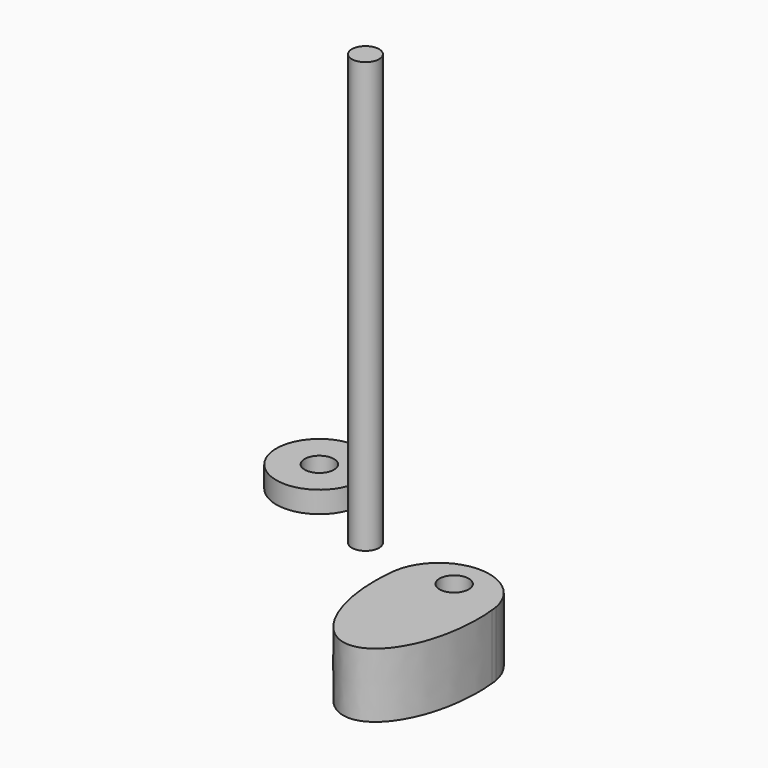
from build123d import *

# Parameters (mm, degrees)
F0_R     = 3.4
F1_DEPTH = 15
F2_R     = 10
F2_R_2   = 3.4
F3_DEPTH = 5
F4_R     = 3.1648062528
F5_DEPTH = 100


with BuildPart() as f1:
    # F0 (on Top) → F1 (new body)
    with BuildSketch(Plane.XY):
        with BuildLine():
            add(Edge.make_bspline(
                [(11.7692737968, 4.3909418779), (11.6971997454, 5.0701040007), (11.6029873176, 5.7396703336)],
                knots=[4.9088023994, 4.9088023994, 4.9088023994, 4.970336442, 4.970336442, 4.970336442], degree=2, weights=[1, 0.9995267325, 1]))
            ThreePointArc((11.7692737968, 4.3909418779), (11.7055719429, 5.0677030594), (11.6029873176, 5.7396703336))
        make_face()
        with BuildLine():
            add(Edge.make_bspline(
                [(-11.7692737968, 4.3909418779), (-14.6229946716, -22.5), (0, -22.5), (14.6229946716, -22.5), (11.7692737968, 4.3909418779)],
                knots=[1.3743829078, 1.3743829078, 1.3743829078, 3.1415926536, 3.1415926536, 4.9088023994, 4.9088023994, 4.9088023994], degree=2, weights=[1, 0.6343685946, 1, 0.6343685946, 1]))
            add(Edge.make_bspline(
                [(11.7692737968, 4.3909418779), (11.6971997454, 5.0701040007), (11.6029873176, 5.7396703336)],
                knots=[4.9088023994, 4.9088023994, 4.9088023994, 4.970336442, 4.970336442, 4.970336442], degree=2, weights=[1, 0.9995267325, 1]))
            ThreePointArc((11.6029873176, 5.7396703336), (0, 15.4187110222), (-11.6029873176, 5.7396703336))
            add(Edge.make_bspline(
                [(-11.6029873176, 5.7396703336), (-11.6971997454, 5.0701040007), (-11.7692737968, 4.3909418779)],
                knots=[1.3128488651, 1.3128488651, 1.3128488651, 1.3743829078, 1.3743829078, 1.3743829078], degree=2, weights=[1, 0.9995267325, 1]))
        make_face()
        with Locations((0, 8.0879377201)):
            Circle(F0_R, mode=Mode.SUBTRACT)
        with BuildLine():
            ThreePointArc((-11.6029873176, 5.7396703336), (-11.7055719429, 5.0677030594), (-11.7692737968, 4.3909418779))
            add(Edge.make_bspline(
                [(-11.6029873176, 5.7396703336), (-11.6971997454, 5.0701040007), (-11.7692737968, 4.3909418779)],
                knots=[1.3128488651, 1.3128488651, 1.3128488651, 1.3743829078, 1.3743829078, 1.3743829078], degree=2, weights=[1, 0.9995267325, 1]))
        make_face()
    extrude(amount=F1_DEPTH)


with BuildPart() as f3:
    # F2 (on Top) → F3 (new body)
    with BuildSketch(Plane.XY):
        with Locations((-60.4746863246, 44.5234291255)):
            Circle(F2_R)
        with Locations((-60.4746863246, 44.5234291255)):
            Circle(F2_R_2, mode=Mode.SUBTRACT)
    extrude(amount=F3_DEPTH)


with BuildPart() as f5:
    # F4 (on Top) → F5 (new body)
    with BuildSketch(Plane.XY):
        with Locations((-40.6531989574, 33.1506431103)):
            Circle(F4_R)
    extrude(amount=F5_DEPTH)


solid = Compound([f1.part, f3.part, f5.part])
